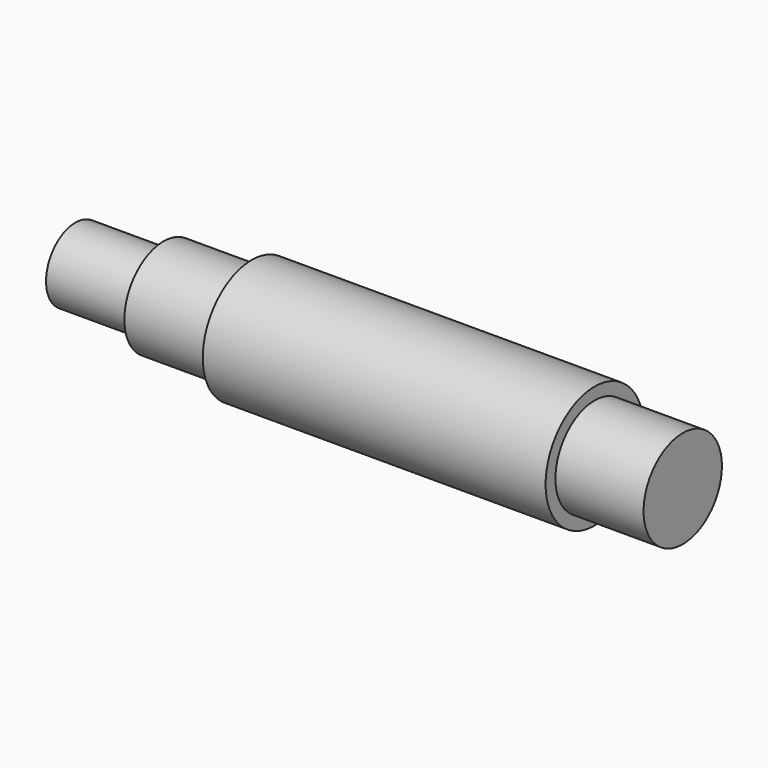
from build123d import *


with BuildPart() as part:
    # Sketch → Revolution (revolve)
    with BuildSketch(Plane.XY):
        Polygon((-36, 0), (-36, 7.5), (-18, 7.5), (-18, 10), (0, 10), (0, 12.5), (70, 12.5), (70, 10), (88, 10), (88, 0), align=None)
    revolve(axis=Axis((0, 0, 0), (1, 0, 0)))


solid = part.part
